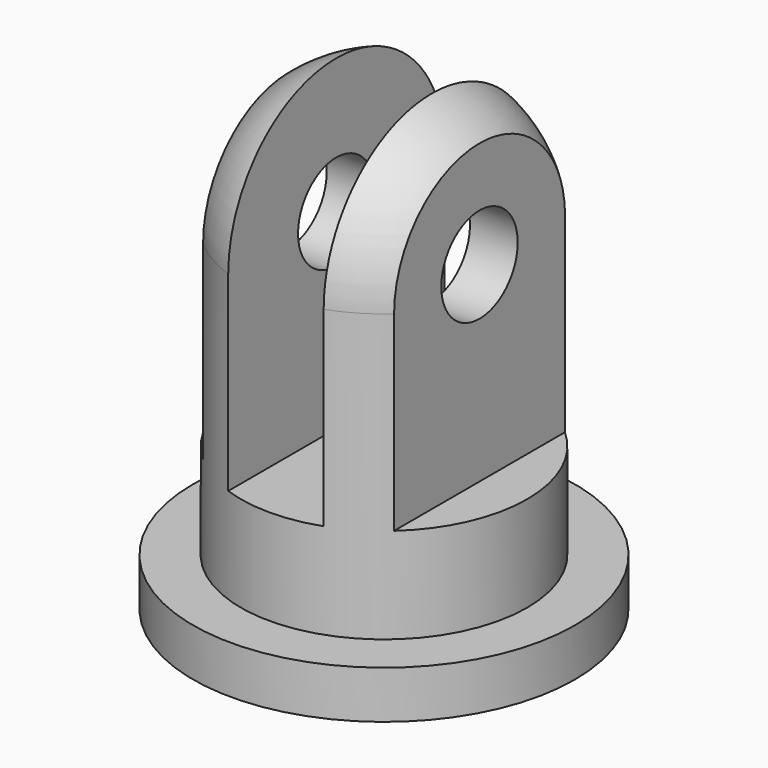
from build123d import *

# Parameters (mm, degrees)
F0_R     = 4
F1_DEPTH = 1
F2_R     = 3
F3_DEPTH = 6
F6_W     = 2
F6_H     = 12.68074
F6_W_2   = 1.971088
F6_H_2   = 12.97379
F6_W_3   = 1.876695
F6_H_3   = 11.885081
F7_DEPTH = 12.5
F8_R     = 1
F9_DEPTH = 6.001


with BuildPart() as f1:
    # F0 (on Top) → F1 (new body)
    with BuildSketch(Plane.XY):
        Circle(F0_R)
    extrude(amount=F1_DEPTH)

    # F2 (on face) → F3 (join)
    with BuildSketch(Plane.XY.offset(1)):
        Circle(F2_R)
    extrude(amount=F3_DEPTH)

    # F4 (on Front) → F5 (revolve)
    with BuildSketch(Plane.XZ):
        with BuildLine():
            Line((0, 7), (3, 7))
            ThreePointArc((3, 7), (2.12132, 9.12132), (0, 10))
            Line((0, 10), (0, 7))
        make_face()
    revolve(axis=Axis((0, 0, 8.5), (0, 0, -1)))

    # F6 (on Front) → F7 (cut, symmetric)
    with BuildSketch(Plane.XZ):
        with Locations((0, 9.34037)):
            Rectangle(F6_W, F6_H)
        with Locations((2.985544, 9.486895)):
            Rectangle(F6_W_2, F6_H_2)
        with Locations((-2.938347, 8.94254)):
            Rectangle(F6_W_3, F6_H_3)
    extrude(amount=F7_DEPTH, both=True, mode=Mode.SUBTRACT)

    # F8 (on face) → F9 (cut, through all)
    with BuildSketch(Plane(origin=(-2, 0, 0), x_dir=(0, -1, 0), z_dir=(-1, 0, 0))):
        with Locations((0, 7)):
            Circle(F8_R)
    extrude(amount=-F9_DEPTH, mode=Mode.SUBTRACT)


solid = f1.part
